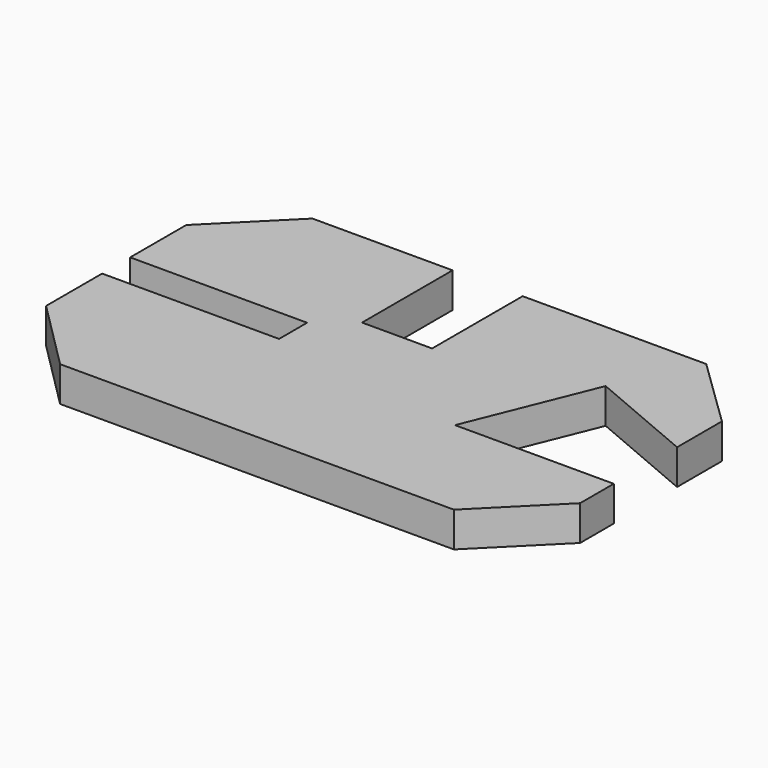
from build123d import *

# Parameters (mm, degrees)
F1_DEPTH = 25.4


with BuildPart() as f1:
    # F0 (on Top) → F1 (new body)
    with BuildSketch(Plane.XY):
        Polygon((-143.461272, -11.417244), (-92.633022, -62.245493), (192.862978, -62.245493), (243.691227, -11.417244), (243.691227, 19.062756), (128.629227, 19.062756), (165.262006, 109.732066), (243.691227, 76.440836), (243.691227, 117.080836), (192.862978, 166.411006), (59.766978, 166.411006), (59.766978, 84.369006), (8.966978, 84.369006), (8.966978, 166.411006), (-92.633022, 166.411006), (-143.461272, 115.582756), (-143.461272, 64.782756), (-15.191272, 64.782756), (-15.191272, 39.382756), (-143.461272, 39.382756), align=None)
    extrude(amount=F1_DEPTH)


solid = f1.part
